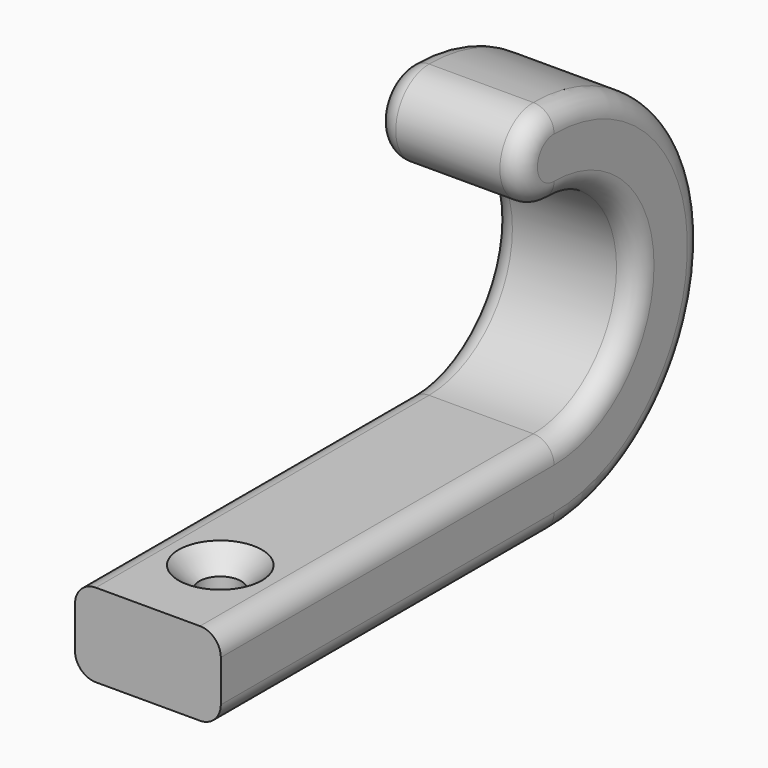
from build123d import *

# Parameters (mm, degrees)
F1_DEPTH = 7
F2_R     = 1
F3_DEPTH = 25
F4_SIZE  = 1
F5_R     = 1


with BuildPart() as f1:
    # F0 (on Right) → F1 (new body)
    with BuildSketch(Plane.YZ):
        with BuildLine():
            Line((-39.777774, 0), (-59.777774, 0))
            Line((-59.777774, 0), (-59.777774, -4))
            Line((-59.777774, -4), (-39.777774, -4))
            ThreePointArc((-39.777774, -4), (-30.777774, 5), (-39.777774, 14))
            ThreePointArc((-39.777774, 14), (-41.777774, 12), (-39.777774, 10))
            ThreePointArc((-39.777774, 10), (-34.777774, 5), (-39.777774, 0))
        make_face()
    extrude(amount=F1_DEPTH)

    # F2 (on face) → F3 (cut)
    with BuildSketch(Plane.XY):
        with Locations((3.5, -55.435631)):
            Circle(F2_R)
    extrude(amount=-F3_DEPTH, mode=Mode.SUBTRACT)

    # F4
    f4_edges = [f1.edges().sort_by_distance(p)[0] for p in [
        (2.5, -55.435631, 0),
        (2.5, -55.435631, -4),
    ]]
    chamfer(f4_edges, length=F4_SIZE)

    # F5
    f5_edges = [f1.edges().sort_by_distance(p)[0] for p in [
        (7, -49.777774, 0),
        (7, -34.777774, 5),
        (0, -49.777774, 0),
        (0, -34.777774, 5),
    ]]
    fillet(f5_edges, radius=F5_R)


solid = f1.part
